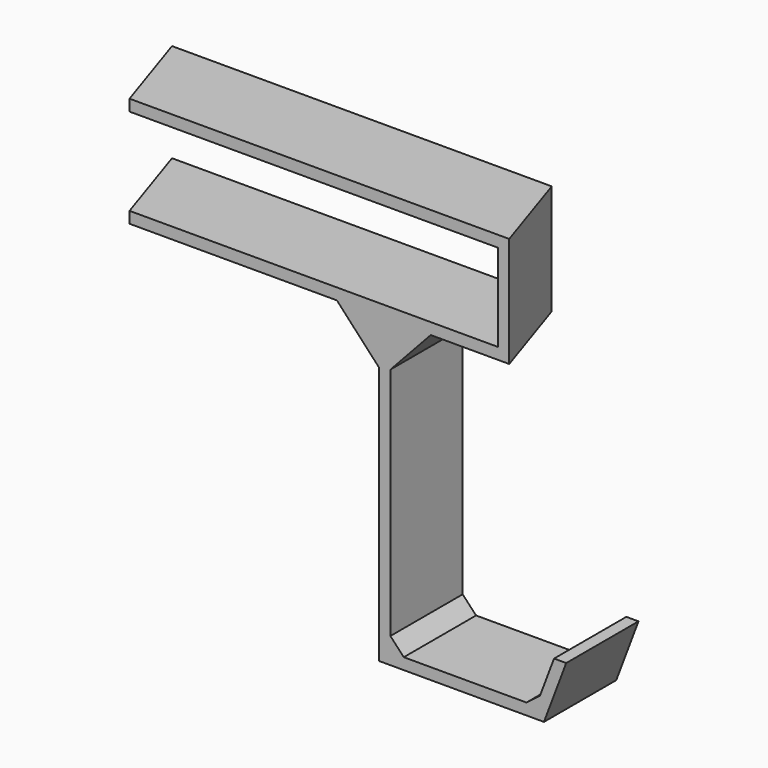
from build123d import *

# Parameters (mm, degrees)
F4_DEPTH = 23.8


with BuildPart() as f2:
    # F2: sweep along a path in F1
    with BuildLine(Plane.XY) as f2_path:
        Line((100, 0), (92.191627, 23.749301))
    # F0 (on Front) → F2 (sweep)
    with BuildSketch(Plane.XZ):
        Polygon((100, 29), (0, 29), (0, 26), (97, 26), (97, 3), (0, 3), (0, 0), (100, 0), align=None)
    sweep(path=f2_path.line)

    # F3 (on Front) → F4 (join)
    with BuildSketch(Plane.XZ):
        Polygon((68.705302, -11.464806), (68.705302, 0), (65.705302, 0), (65.705302, -11.963572), (66.974133, -13.332377), align=None)
        Polygon((68.705302, -73.235512), (68.705302, -11.464806), (66.974133, -13.332377), (65.705302, -11.963572), (65.705302, -80), (109.149036, -80), (115.005407, -64.447597), (111.799763, -64.447597), (108.102038, -74.267415), (107.073064, -77), (104.542602, -77), (72.230041, -77), (68.705302, -77), align=None)
        Polygon((79.33275, 0), (68.705302, 0), (68.705302, -11.464806), align=None)
        Polygon((65.705302, -11.963572), (65.705302, 0), (54.615512, 0), align=None)
        Polygon((68.705302, -11.464806), (68.705302, 0), (65.705302, 0), (65.705302, -11.963572), (66.974133, -13.332377), align=None)
        Polygon((72.230041, -77), (68.705302, -73.235512), (68.705302, -77), align=None)
        Polygon((108.102038, -74.267415), (104.542602, -77), (107.073064, -77), align=None)
    extrude(amount=-F4_DEPTH)


solid = f2.part
